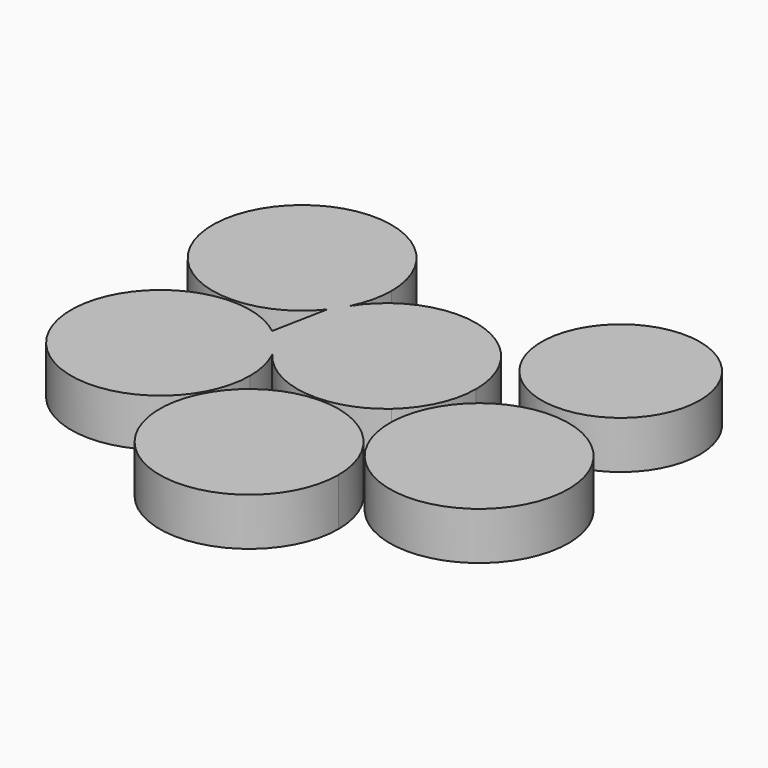
from build123d import *

# Parameters (mm, degrees)
F0_R     = 11.62
F1_DEPTH = 7


with BuildPart() as f1:
    # F0 (on Top) → F1 (new body)
    with BuildSketch(Plane.XY):
        with BuildLine():
            ThreePointArc((-11.7158977966, 5.9052636537), (-11.4037708203, 6.4875581754), (-11.0627267086, 7.053401858))
            ThreePointArc((-11.0627267086, 7.053401858), (-10.0144759027, 9.9237173319), (-9.6586245052, 12.9586655117))
            ThreePointArc((-9.6586245052, 12.9586655117), (-35.156679229, 17.3081667768), (-12.5424905502, 4.7515977251))
            ThreePointArc((-12.5424905502, 4.7515977251), (-12.1135833585, 5.3172456607), (-11.7158977966, 5.9052636537))
        make_face()
        with Locations((-22.7786245052, 12.9586655117)):
            Circle(F0_R, mode=Mode.SUBTRACT)
        with BuildLine():
            ThreePointArc((-10.4545014127, -7.9452637049), (-10.4667257272, -7.9199237396), (-10.4790043524, -7.8946100462))
            ThreePointArc((-10.4790043524, -7.8946100462), (-11.1907671743, -6.848439972), (-11.7984410246, -5.7385703263))
            ThreePointArc((-11.7984410246, -5.7385703263), (-12.8861513263, -4.4714121996), (-14.1260129293, -3.3526867535))
            ThreePointArc((-14.1260129293, -3.3526867535), (-34.090175665, -19.3422786502), (-9.157445377, -13.6331803725))
            ThreePointArc((-9.157445377, -13.6331803725), (-9.4858187249, -10.7162148955), (-10.4545014127, -7.9452637049))
        make_face()
        with Locations((-22.277445377, -13.6331803725)):
            Circle(F0_R, mode=Mode.SUBTRACT)
        with BuildLine():
            ThreePointArc((-10.4790043524, -7.8946100462), (-1.3555924139, -13.0497804276), (8.6326140868, -9.8798974706))
            ThreePointArc((8.6326140868, -9.8798974706), (11.9455911704, -5.4256107113), (13.12, 0))
            ThreePointArc((13.12, 0), (3.6736511527, 12.5951850804), (-11.0627267086, 7.053401858))
            ThreePointArc((-11.0627267086, 7.053401858), (-11.3748536849, 6.4711073364), (-11.7158977966, 5.9052636537))
            ThreePointArc((-11.7158977966, 5.9052636537), (-13.119670346, 0.0930054432), (-11.7984410246, -5.7385703263))
            ThreePointArc((-11.7984410246, -5.7385703263), (-11.0866782027, -6.7847404005), (-10.4790043524, -7.8946100462))
        make_face()
        with BuildLine():
            ThreePointArc((6.9492298562, -9.3130341139), (-10.3868775609, 5.2093353257), (11.62, 0))
            ThreePointArc((11.62, 0), (10.3868775609, -5.2093353257), (6.9492298562, -9.3130341139))
        make_face(mode=Mode.SUBTRACT)
        with Locations((-22.277445377, -13.6331803725)):
            Circle(F0_R)
        with BuildLine():
            ThreePointArc((6.9492298562, -9.3130341139), (10.3868775609, -5.2093353257), (11.62, 0))
            ThreePointArc((11.62, 0), (-10.3868775609, 5.2093353257), (6.9492298562, -9.3130341139))
        make_face()
        with Locations((-22.7786245052, 12.9586655117)):
            Circle(F0_R)
        with BuildLine():
            ThreePointArc((-14.1260129293, -3.3526867535), (-12.8861513263, -4.4714121996), (-11.7984410246, -5.7385703263))
            ThreePointArc((-11.7984410246, -5.7385703263), (-13.119670346, 0.0930054432), (-11.7158977966, 5.9052636537))
            ThreePointArc((-11.7158977966, 5.9052636537), (-12.1135833585, 5.3172456607), (-12.5424905502, 4.7515977251))
            Line((-12.5424905502, 4.7515977251), (-14.1260129293, -3.3526867535))
        make_face()
        with BuildLine():
            ThreePointArc((-11.7984410246, -5.7385703263), (-11.1907671743, -6.848439972), (-10.4790043524, -7.8946100462))
            ThreePointArc((-10.4790043524, -7.8946100462), (-11.0866782027, -6.7847404005), (-11.7984410246, -5.7385703263))
        make_face()
        with BuildLine():
            ThreePointArc((-11.7158977966, 5.9052636537), (-11.3748536849, 6.4711073364), (-11.0627267086, 7.053401858))
            ThreePointArc((-11.0627267086, 7.053401858), (-11.4037708203, 6.4875581754), (-11.7158977966, 5.9052636537))
        make_face()
    extrude(amount=F1_DEPTH)


with BuildPart() as f1b:
    # F0 (on Top) → F1, piece 2 (new body)
    with BuildSketch(Plane.XY):
        with BuildLine():
            ThreePointArc((14.1223582564, -26.4950694578), (7.6032114793, -15.1565009092), (-5.4756808793, -15.0858885513))
            ThreePointArc((-5.4756808793, -15.0858885513), (-5.5984949664, -37.8336380064), (14.1223582564, -26.4950694578))
        make_face()
        with Locations((1.0023582564, -26.4950694578)):
            Circle(F0_R, mode=Mode.SUBTRACT)
        with Locations((1.0023582564, -26.4950694578)):
            Circle(F0_R)
    extrude(amount=F1_DEPTH)


with BuildPart() as f1c:
    # F0 (on Top) → F1, piece 3 (new body)
    with BuildSketch(Plane.XY):
        with BuildLine():
            ThreePointArc((36.9009827616, -12.7651126588), (24.8560257538, 0.3107690539), (10.8371591999, -10.6222567134))
            ThreePointArc((10.8371591999, -10.6222567134), (22.7059397695, -25.8409943715), (36.9009827616, -12.7651126588))
        make_face()
        with BuildLine():
            ThreePointArc((35.4009827616, -12.7651126588), (22.9503179079, -24.3553842648), (12.2797442245, -11.1080332667))
            ThreePointArc((12.2797442245, -11.1080332667), (24.6116476153, -1.1748410528), (35.4009827616, -12.7651126588))
        make_face(mode=Mode.SUBTRACT)
        with BuildLine():
            ThreePointArc((35.4009827616, -12.7651126588), (24.6116476153, -1.1748410528), (12.2797442245, -11.1080332667))
            ThreePointArc((12.2797442245, -11.1080332667), (22.9503179079, -24.3553842648), (35.4009827616, -12.7651126588))
        make_face()
    extrude(amount=F1_DEPTH)


with BuildPart() as f1d:
    # F0 (on Top) → F1, piece 4 (new body)
    with BuildSketch(Plane.XY):
        with Locations((23.2798036334, 13.8267332255)):
            Circle(F0_R)
    extrude(amount=F1_DEPTH)


solid = Compound([f1.part, f1b.part, f1c.part, f1d.part])
